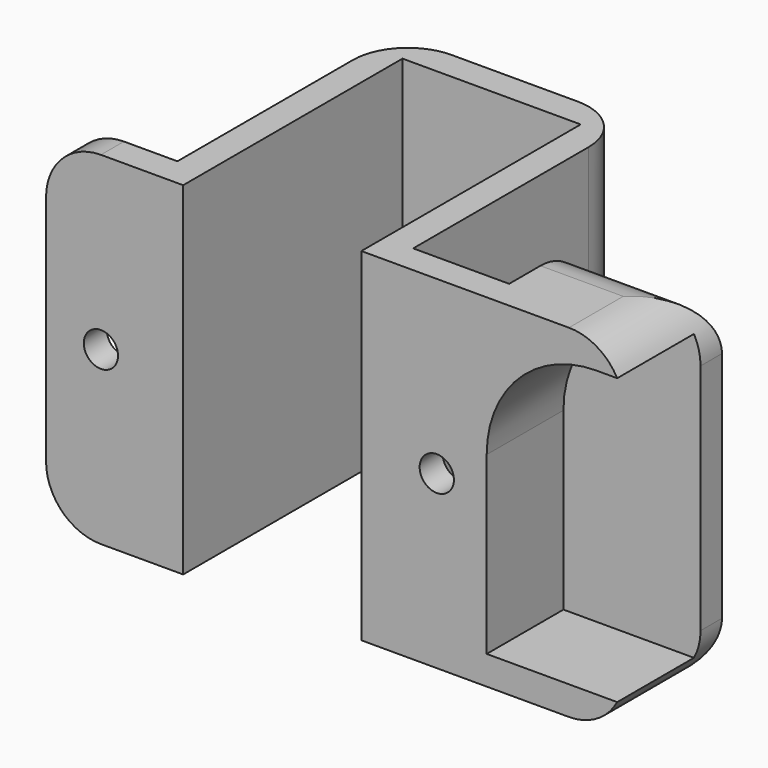
from build123d import *

# Parameters (mm, degrees)
F1_DEPTH = 25
F3_W     = 7
F3_H     = 20.8
F4_DEPTH = 10
F5_R     = 1.25
F6_DEPTH = 25
F7_R     = 4
F8_R     = 8


with BuildPart() as f1:
    # F0 (on Top) → F1 (new body)
    with BuildSketch(Plane.XY):
        Polygon((0, 20), (0, 0), (9.1, 0), (9.1, 2.1), (2.1, 2.1), (2.1, 22.1), (-15.1, 22.1), (-15.1, 2.1), (-23, 2.1), (-23, 0), (-13, 0), (-13, 20), align=None)
        Polygon((9.1, 2.1), (9.1, 0), (19.1419273615, 0), (19.1419273615, 8.9497342706), (9.1, 8.9497342706), align=None)
    extrude(amount=F1_DEPTH)

    # F3 (on offset) → F4 (cut)
    with BuildSketch(Plane.YZ.offset(19.1419273615)):
        with Locations((3.5, 12.5)):
            Rectangle(F3_W, F3_H)
    extrude(amount=-F4_DEPTH, mode=Mode.SUBTRACT)

    # F5 (on Front) → F6 (cut)
    with BuildSketch(Plane.XZ):
        with Locations((-19, 12.5)):
            Circle(F5_R)
        with Locations((5.5, 12.5)):
            Circle(F5_R)
    extrude(amount=-F6_DEPTH, mode=Mode.SUBTRACT)

    # F7
    f7_edges = [f1.edges().sort_by_distance(p)[0] for p in [
        (-15.1, 22.1, 12.5),
        (2.1, 22.1, 12.5),
        (14.120964, 8.949734, 25),
        (14.120964, 8.949734, 0),
        (-23, 1.05, 25),
        (-23, 1.05, 0),
        (19.141927, 4.474867, 25),
        (19.141927, 4.474867, 0),
    ]]
    fillet(f7_edges, radius=F7_R)

    # F8
    f8_edges = [f1.edges().sort_by_distance(p)[0] for p in [
        (9.141927, 3.5, 22.9),
    ]]
    fillet(f8_edges, radius=F8_R)


solid = f1.part
